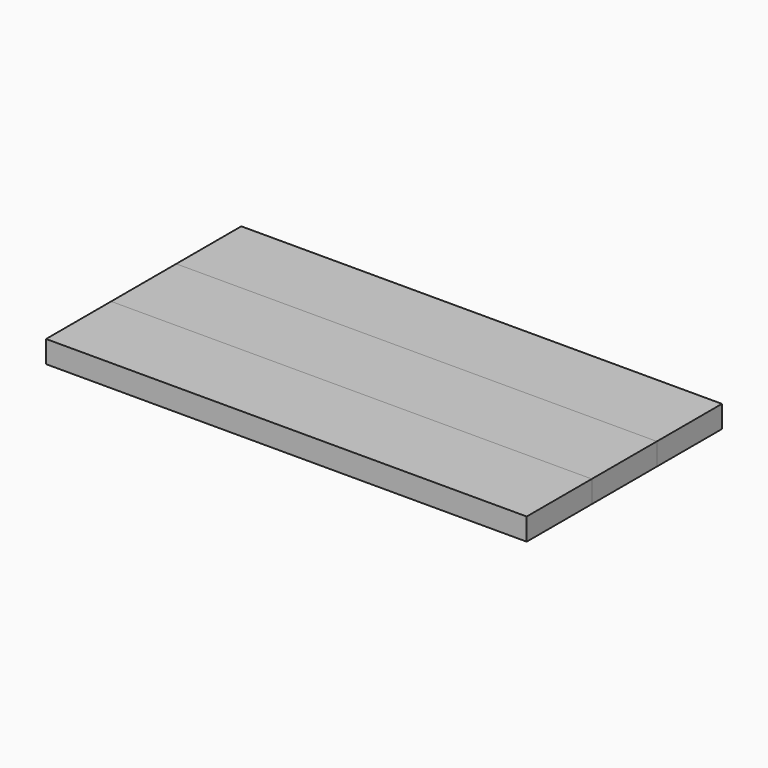
from build123d import *

# Parameters (mm, degrees)
F0_W     = 82.55
F0_H     = 13.97
F1_DEPTH = 3.81


with BuildPart() as f1:
    # F0 (on Top) → F1 (new body)
    with BuildSketch(Plane.XY):
        with Locations((3.468456, 55.612436)):
            Rectangle(F0_W, F0_H)
    extrude(amount=F1_DEPTH)


with BuildPart() as f2_1:
    # F2: copy of F1
    add(f1.part.moved(Location((0, -13.97, 0))))


with BuildPart() as f3_1:
    # F3: copy of F2_1
    add(f2_1.part.moved(Location((0, -13.97, 0))))


solid = Compound([f1.part, f2_1.part, f3_1.part])
